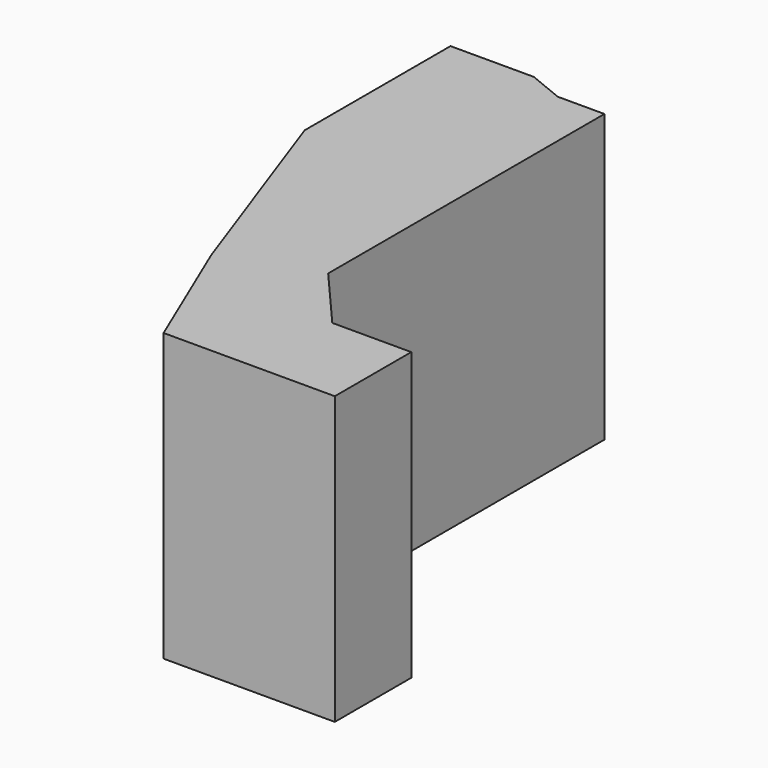
from build123d import *

# Parameters (mm, degrees)
PAD_DEPTH = 21


with BuildPart() as part:
    # Sketch → Pad (new body)
    with BuildSketch(Plane.XY):
        Polygon((15.064161, 13.763299), (15.064161, -11.529544), (19.077391, -16.168041), (24.861727, -16.168041), (24.861727, -23.168041), (12.321744, -23.168041), (8.41961, -13.925244), (2.937834, 1.476605), (2.937834, 14.82831), (9.042294, 14.82831), (11.646651, 13.763299), align=None)
    extrude(amount=PAD_DEPTH)


solid = part.part
